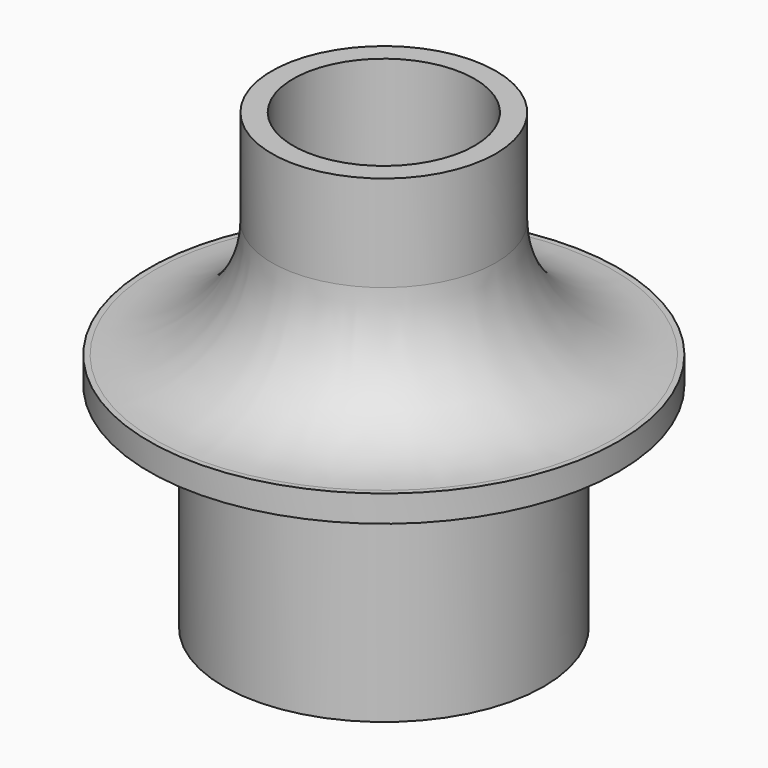
from build123d import *

# Parameters (mm, degrees)
SKETCH_R      = 6
SKETCH_R_2    = 3.4
PAD_DEPTH     = 8
SKETCH001_R   = 8.8
SKETCH001_R_2 = 3.4
PAD001_DEPTH  = 1
SKETCH002_R   = 4.2
SKETCH002_R_2 = 3.4
PAD002_DEPTH  = 8
FILLET_R      = 4.4


with BuildPart() as part:
    # Sketch → Pad (new body)
    with BuildSketch(Plane.XY):
        Circle(SKETCH_R)
        Circle(SKETCH_R_2, mode=Mode.SUBTRACT)
    extrude(amount=PAD_DEPTH)

    # Sketch001 → Pad001 (new body)
    with BuildSketch(Plane.XY.offset(8)):
        Circle(SKETCH001_R)
        Circle(SKETCH001_R_2, mode=Mode.SUBTRACT)
    extrude(amount=PAD001_DEPTH)

    # Sketch002 → Pad002 (new body)
    with BuildSketch(Plane.XY.offset(9)):
        Circle(SKETCH002_R)
        Circle(SKETCH002_R_2, mode=Mode.SUBTRACT)
    extrude(amount=PAD002_DEPTH)

    # Fillet
    fillet_edges = [part.edges().sort_by_distance(p)[0] for p in [
        (-4.2, 0, 9),
    ]]
    fillet(fillet_edges, radius=FILLET_R)


solid = part.part
